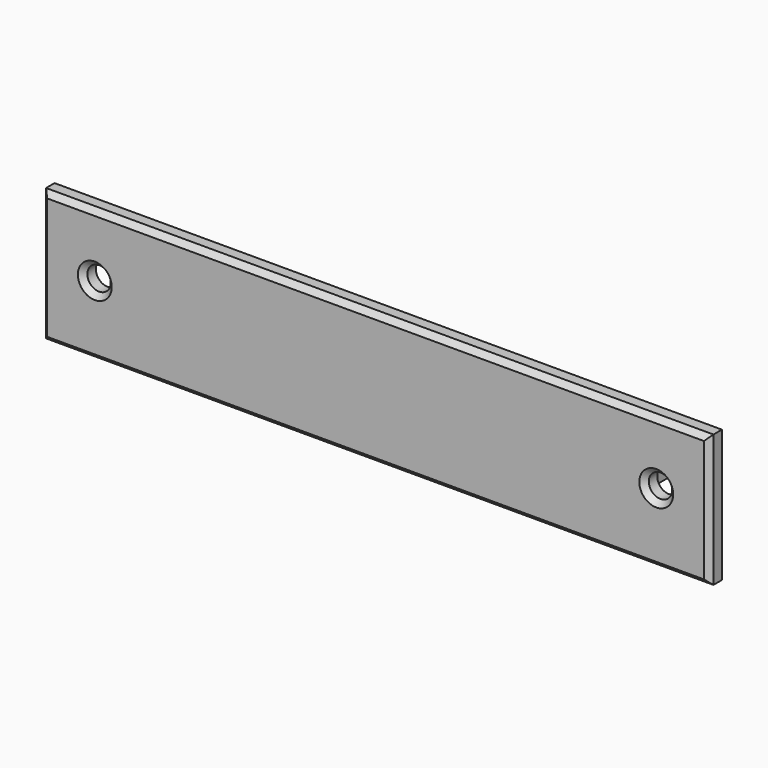
from build123d import *

# Parameters (mm, degrees)
SKETCH056_W             = 126
SKETCH056_H             = 25
SKETCH056_R             = 2.2
PAD024_DEPTH            = 3
SKETCH057_W             = 12.4
SKETCH057_H             = 4
PAD025_DEPTH            = 21.5
SKETCH058_R             = 2.2
POCKET031_DEPTH         = 10.609
CHAMFER023_SIZE         = 1
BODY012_ROLL_ANGLE      = 90
BODY012_PLACEMENT_ANGLE = 180


with BuildPart() as part:
    # Sketch056 → Pad024 (new body)
    with BuildSketch(Plane.XY):
        Rectangle(SKETCH056_W, SKETCH056_H)
        with Locations((-53, 0.726)):
            Circle(SKETCH056_R, mode=Mode.SUBTRACT)
        with Locations((53, 0.726)):
            Circle(SKETCH056_R, mode=Mode.SUBTRACT)
    extrude(amount=PAD024_DEPTH)

    # Sketch057 (on Face8 of Pad024) → Pad025 (join)
    with BuildSketch(Plane.XY.offset(3)):
        with Locations((-38.154, -3.892)):
            Rectangle(SKETCH057_W, SKETCH057_H)
        with Locations((38.154, -3.892)):
            Rectangle(SKETCH057_W, SKETCH057_H)
    extrude(amount=PAD025_DEPTH)

    # Sketch058 (on Face12 of Pad025) → Pocket031 (cut, through all)
    with BuildSketch(Plane(origin=(0, -1.892, 0), x_dir=(-1, 0, 0), z_dir=(0, 1, 0))):
        with Locations((-38.154, 18.3)):
            Circle(SKETCH058_R)
        with Locations((38.154, 18.3)):
            Circle(SKETCH058_R)
    extrude(amount=-POCKET031_DEPTH, mode=Mode.SUBTRACT)

    # Chamfer023
    chamfer023_edges = [part.edges().sort_by_distance(p)[0] for p in [
        (0, 12.5, 0),
        (63, 0, 0),
        (0, -12.5, 0),
        (-63, 0, 0),
        (50.8, 0.726, 0),
        (-55.2, 0.726, 0),
    ]]
    chamfer(chamfer023_edges, length=CHAMFER023_SIZE)


with BuildPart() as part_1:
    # Body012 roll: moved
    add(part.part.rotate(Axis((0, 0, 0), (1, 0, 0)), BODY012_ROLL_ANGLE))


with BuildPart() as part_2:
    # Body012 placement: moved
    add(part_1.part.moved(Location((0, -143.1, -77.85))).rotate(Axis((0, -143.1, -77.85), (0, 0, 1)), BODY012_PLACEMENT_ANGLE))


solid = part_2.part
